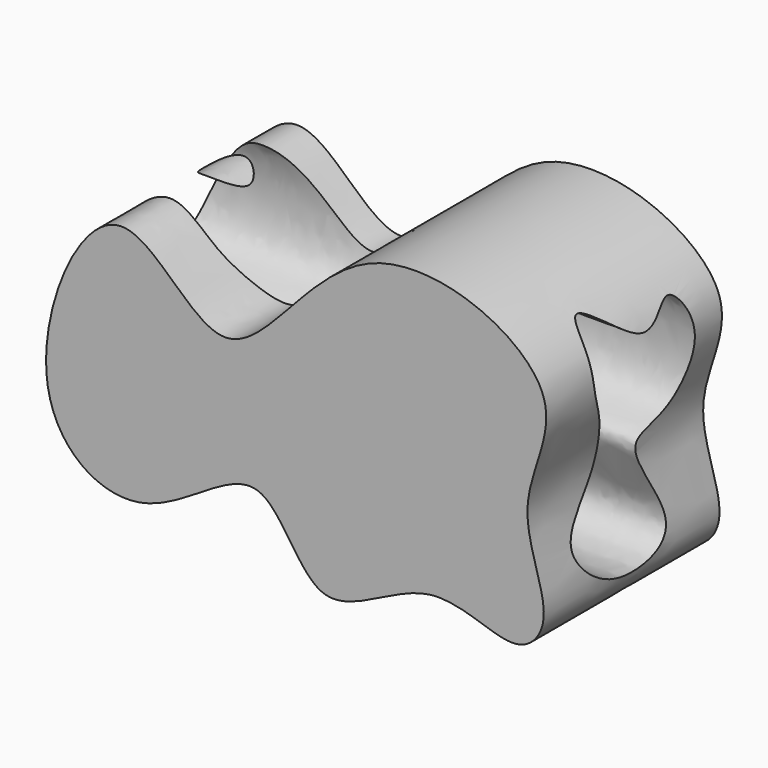
from build123d import *

# Parameters (mm, degrees)
F1_DEPTH = 85.8151372522
F4_DEPTH = 261.5831792355


with BuildPart() as f1:
    # F0 (on Front) → F1 (new body)
    with BuildSketch(Plane.XZ):
        with BuildLine():
            add(Edge.make_bspline(
                [(67.5018578768, -42.8153090179), (52.8068761561, -44.7408442847), (22.1402099903, -73.8182401122), (3.2151516975, -8.7822992764), (-43.9752722565, -62.5933687076), (-98.9813697366, -26.4662895246), (-56.7597945412, 75.5516134325), (-9.6375993918, -10.0006299416), (35.0967971715, 88.8561108153), (130.4881655623, 46.5724391331), (96.7499518741, 0.7050749565), (117.9473541552, -34.7970935251), (101.0605212165, -55.7991632114), (80.5362500738, -41.1073666513), (67.5018578768, -42.8153090179)],
                knots=[0, 0, 0, 0, 0.081322309, 0.1567474637, 0.2427149341, 0.3264616394, 0.4299350404, 0.5148209616, 0.6200883288, 0.7233772825, 0.8029129228, 0.877427423, 0.9278674251, 1, 1, 1, 1], degree=3))
        make_face()
    extrude(amount=-F1_DEPTH)

    # F3 (on offset) → F4 (cut)
    with BuildSketch(Plane.YZ.offset(124.8981375247)):
        with BuildLine():
            add(Edge.make_bspline(
                [(27.4175107479, 23.0793189257), (25.091623664, 27.9261744435), (21.5941532329, 34.2124435167), (26.3342001945, 63.7872561565), (49.5945263826, 31.8143703866), (71.2751833794, 59.551311153), (77.3501476373, 2.821072471), (42.4427505376, 5.4476342634), (71.43792234, -31.4667276638), (37.6174184545, -43.8487562464), (6.1050404491, -19.7006843644), (38.7482865889, -2.1346641382), (30.4118803708, 16.8394300553), (27.4175107479, 23.0793189257)],
                knots=[0, 0, 0, 0, 0.0711500734, 0.149986284, 0.2433737986, 0.3228589537, 0.4360702901, 0.5190487365, 0.6206662368, 0.7139930284, 0.8137305138, 0.9084007044, 1, 1, 1, 1], degree=3))
        make_face()
    extrude(amount=-F4_DEPTH, mode=Mode.SUBTRACT)


solid = f1.part
